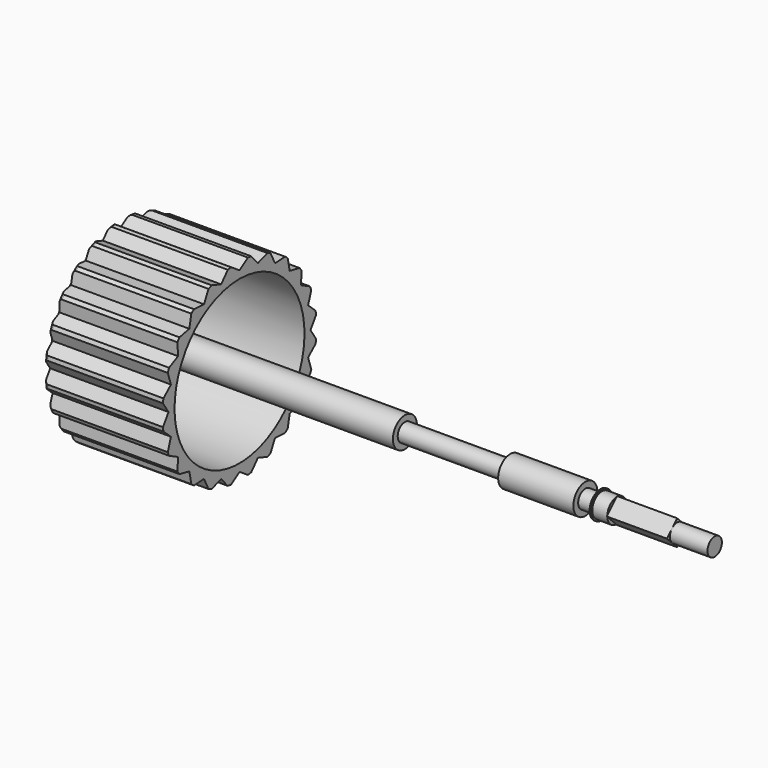
from build123d import *

# Parameters (mm, degrees)
POCKET001_DEPTH       = 0.2
POCKET002_DEPTH       = 5
POLARPATTERN001_COUNT = 24
PAD002_DEPTH          = 2
SKETCH033_R           = 0.3
PAD003_DEPTH          = 1.25


with BuildPart() as part:
    # Sketch034 → Revolution002 (revolve)
    with BuildSketch(Plane.XZ):
        with BuildLine():
            Line((0.5, 0), (0, 0))
            ThreePointArc((0.196118, 2.79397), (0.04909, 1.400422), (0, 0))
            ThreePointArc((0.295138, 2.88), (0.229552, 2.855488), (0.196118, 2.79397))
            ThreePointArc((0.295138, 2.88), (0.30928, 2.885858), (0.315138, 2.9))
            Line((0.315138, 3.1), (0.315138, 2.9))
            ThreePointArc((0.415138, 3.2), (0.344427, 3.170711), (0.315138, 3.1))
            Line((4.25, 3.2), (0.415138, 3.2))
            Line((4.25, 3.2), (4.25, 2.7))
            Line((4.25, 2.7), (0.5, 2.7))
            Line((0.5, 2.7), (0.5, 0))
        make_face()
    revolve(axis=Axis((0, 0, 0), (1, 0, 0)))

    # Sketch036 → Pocket001 (cut)
    with BuildSketch(Plane(origin=(0, 0, 0), x_dir=(0, -1, 0), z_dir=(-1, 0, 0))):
        with BuildLine():
            add(Edge.make_bspline(
                [(-0.144586, -1.770388), (-0.144587, -1.770389)],
                knots=[0, 0, 0.000117, 0.000117], degree=1))
            add(Edge.make_bspline(
                [(-0.144587, -1.770389), (-0.285158, -1.765754), (-0.431866, -1.745089), (-0.589359, -1.707739)],
                knots=[0, 0, 0, 0, 1, 1, 1, 1], degree=3))
            add(Edge.make_bspline(
                [(-0.589359, -1.707739), (-0.980517, -1.614974), (-1.33255, -1.438556), (-1.601539, -1.200496)],
                knots=[0, 0, 0, 0, 1, 1, 1, 1], degree=3))
            add(Edge.make_bspline(
                [(-1.601539, -1.200496), (-1.652107, -1.155742), (-1.717078, -1.090667), (-1.760041, -1.041739)],
                knots=[0, 0, 0, 0, 1, 1, 1, 1], degree=3))
            add(Edge.make_bspline(
                [(-1.760041, -1.041739), (-1.899643, -0.882754), (-2.000251, -0.711103), (-2.062886, -0.525045)],
                knots=[0, 0, 0, 0, 1, 1, 1, 1], degree=3))
            add(Edge.make_bspline(
                [(-2.062886, -0.525045), (-2.099453, -0.416421), (-2.119934, -0.314215), (-2.128859, -0.195826)],
                knots=[0, 0, 0, 0, 1, 1, 1, 1], degree=3))
            add(Edge.make_bspline(
                [(-2.128859, -0.195826), (-2.131077, -0.166402), (-2.130715, -0.061543), (-2.128288, -0.030672)],
                knots=[0, 0, 0, 0, 1, 1, 1, 1], degree=3))
            add(Edge.make_bspline(
                [(-2.128288, -0.030672), (-2.117488, 0.106707), (-2.088749, 0.229403), (-2.037218, 0.358127)],
                knots=[0, 0, 0, 0, 1, 1, 1, 1], degree=3))
            add(Edge.make_bspline(
                [(-2.037218, 0.358127), (-1.998629, 0.454522), (-1.942403, 0.55898), (-1.882985, 0.644663)],
                knots=[0, 0, 0, 0, 1, 1, 1, 1], degree=3))
            add(Edge.make_bspline(
                [(-1.882985, 0.644663), (-1.70569, 0.900327), (-1.457248, 1.110378), (-1.14805, 1.26603)],
                knots=[0, 0, 0, 0, 1, 1, 1, 1], degree=3))
            add(Edge.make_bspline(
                [(-1.14805, 1.26603), (-0.885632, 1.398134), (-0.570779, 1.488035), (-0.239548, 1.525439)],
                knots=[0, 0, 0, 0, 1, 1, 1, 1], degree=3))
            add(Edge.make_bspline(
                [(-0.239548, 1.525439), (-0.167929, 1.533526), (-0.106279, 1.538326), (-0.020857, 1.542465)],
                knots=[0, 0, 0, 0, 1, 1, 1, 1], degree=3))
            add(Edge.make_bspline(
                [(-0.020857, 1.542465), (0.016846, 1.544292), (0.145846, 1.544978), (0.189538, 1.543584)],
                knots=[0, 0, 0, 0, 1, 1, 1, 1], degree=3))
            add(Edge.make_bspline(
                [(0.189538, 1.543584), (0.355726, 1.538282), (0.495151, 1.522151), (0.653388, 1.489918)],
                knots=[0, 0, 0, 0, 1, 1, 1, 1], degree=3))
            add(Edge.make_bspline(
                [(0.653388, 1.489918), (0.925326, 1.434523), (1.173778, 1.343798), (1.395765, 1.218829)],
                knots=[0, 0, 0, 0, 1, 1, 1, 1], degree=3))
            add(Edge.make_bspline(
                [(1.395765, 1.218829), (1.507886, 1.155711), (1.620308, 1.079072), (1.713593, 1.002165)],
                knots=[0, 0, 0, 0, 1, 1, 1, 1], degree=3))
            add(Edge.make_bspline(
                [(1.713593, 1.002165), (1.821923, 0.912853), (1.917703, 0.814477), (1.990546, 0.717701)],
                knots=[0, 0, 0, 0, 1, 1, 1, 1], degree=3))
            add(Edge.make_bspline(
                [(1.990546, 0.717701), (2.057324, 0.628984), (2.105048, 0.552639), (2.147961, 0.465882)],
                knots=[0, 0, 0, 0, 1, 1, 1, 1], degree=3))
            add(Edge.make_bspline(
                [(2.147961, 0.465882), (2.206276, 0.347985), (2.24562, 0.230612), (2.267816, 0.10832)],
                knots=[0, 0, 0, 0, 1, 1, 1, 1], degree=3))
            add(Edge.make_bspline(
                [(2.267816, 0.10832), (2.279813, 0.042218), (2.287258, -0.064114), (2.286058, -0.152221)],
                knots=[0, 0, 0, 0, 1, 1, 1, 1], degree=3))
            add(Edge.make_bspline(
                [(2.286058, -0.152221), (2.285274, -0.209686), (2.282081, -0.254964), (2.275408, -0.303204)],
                knots=[0, 0, 0, 0, 1, 1, 1, 1], degree=3))
            add(Edge.make_bspline(
                [(2.275408, -0.303204), (2.245431, -0.519916), (2.149781, -0.74391), (2.00425, -0.938204)],
                knots=[0, 0, 0, 0, 1, 1, 1, 1], degree=3))
            add(Edge.make_bspline(
                [(2.00425, -0.938204), (1.987538, -0.960516), (1.948163, -1.009461), (1.936297, -1.022673)],
                knots=[0, 0, 0, 0, 1, 1, 1, 1], degree=3))
            add(Edge.make_bspline(
                [(1.936297, -1.022673), (1.899917, -1.06318), (1.861742, -1.083023), (1.812558, -1.08699)],
                knots=[0, 0, 0, 0, 1, 1, 1, 1], degree=3))
            add(Edge.make_bspline(
                [(1.812558, -1.08699), (1.756181, -1.091539), (1.700842, -1.069502), (1.663845, -1.027771)],
                knots=[0, 0, 0, 0, 1, 1, 1, 1], degree=3))
            add(Edge.make_bspline(
                [(1.663845, -1.027771), (1.636227, -0.996619), (1.621784, -0.960064), (1.619626, -0.915857)],
                knots=[0, 0, 0, 0, 1, 1, 1, 1], degree=3))
            add(Edge.make_bspline(
                [(1.619626, -0.915857), (1.617772, -0.877879), (1.628117, -0.840288), (1.649069, -0.808866)],
                knots=[0, 0, 0, 0, 1, 1, 1, 1], degree=3))
            add(Edge.make_bspline(
                [(1.649069, -0.808866), (1.655113, -0.799802), (1.662157, -0.790931), (1.685396, -0.763115)],
                knots=[0, 0, 0, 0, 1, 1, 1, 1], degree=3))
            add(Edge.make_bspline(
                [(1.685396, -0.763115), (1.711769, -0.731549), (1.753555, -0.671814), (1.779107, -0.629153)],
                knots=[0, 0, 0, 0, 1, 1, 1, 1], degree=3))
            add(Edge.make_bspline(
                [(1.779107, -0.629153), (1.852048, -0.507369), (1.899487, -0.377196), (1.916761, -0.251423)],
                knots=[0, 0, 0, 0, 1, 1, 1, 1], degree=3))
            add(Edge.make_bspline(
                [(1.916761, -0.251423), (1.92313, -0.205052), (1.925528, -0.185892), (1.926584, -0.172934)],
                knots=[0, 0, 0, 0, 1, 1, 1, 1], degree=3))
            add(Edge.make_bspline(
                [(1.926584, -0.172934), (1.933892, -0.083294), (1.918543, 0.038294), (1.885783, 0.15029)],
                knots=[0, 0, 0, 0, 1, 1, 1, 1], degree=3))
            add(Edge.make_bspline(
                [(1.885783, 0.15029), (1.842095, 0.299643), (1.758537, 0.444877), (1.639308, 0.578695)],
                knots=[0, 0, 0, 0, 1, 1, 1, 1], degree=3))
            add(Edge.make_bspline(
                [(1.639308, 0.578695), (1.57962, 0.645687), (1.505791, 0.712948), (1.426438, 0.772626)],
                knots=[0, 0, 0, 0, 1, 1, 1, 1], degree=3))
            add(Edge.make_bspline(
                [(1.426438, 0.772626), (1.263509, 0.895159), (1.074448, 0.991909), (0.858877, 1.063068)],
                knots=[0, 0, 0, 0, 1, 1, 1, 1], degree=3))
            add(Edge.make_bspline(
                [(0.858877, 1.063068), (0.703619, 1.114318), (0.537742, 1.150141), (0.36583, 1.169547)],
                knots=[0, 0, 0, 0, 1, 1, 1, 1], degree=3))
            add(Edge.make_bspline(
                [(0.36583, 1.169547), (0.349472, 1.171393), (0.326907, 1.173363), (0.315685, 1.173923)],
                knots=[0, 0, 0, 0, 1, 1, 1, 1], degree=3))
            add(Edge.make_bspline(
                [(0.315685, 1.173923), (0.150649, 1.182167), (0.011159, 1.183641), (-0.091715, 1.178228)],
                knots=[0, 0, 0, 0, 1, 1, 1, 1], degree=3))
            add(Edge.make_bspline(
                [(-0.091715, 1.178228), (-0.206151, 1.172206), (-0.312577, 1.158443), (-0.427504, 1.134802)],
                knots=[0, 0, 0, 0, 1, 1, 1, 1], degree=3))
            add(Edge.make_bspline(
                [(-0.427504, 1.134802), (-0.655783, 1.087843), (-0.865059, 1.012915), (-1.048303, 0.912531)],
                knots=[0, 0, 0, 0, 1, 1, 1, 1], degree=3))
            add(Edge.make_bspline(
                [(-1.048303, 0.912531), (-1.170884, 0.84538), (-1.275829, 0.771616), (-1.374797, 0.683042)],
                knots=[0, 0, 0, 0, 1, 1, 1, 1], degree=3))
            add(Edge.make_bspline(
                [(-1.374797, 0.683042), (-1.411148, 0.650508), (-1.467857, 0.592493), (-1.499691, 0.555272)],
                knots=[0, 0, 0, 0, 1, 1, 1, 1], degree=3))
            add(Edge.make_bspline(
                [(-1.499691, 0.555272), (-1.586007, 0.454347), (-1.653198, 0.344308), (-1.699433, 0.228153)],
                knots=[0, 0, 0, 0, 1, 1, 1, 1], degree=3))
            add(Edge.make_bspline(
                [(-1.699433, 0.228153), (-1.763662, 0.066794), (-1.780959, -0.105896), (-1.750785, -0.284545)],
                knots=[0, 0, 0, 0, 1, 1, 1, 1], degree=3))
            add(Edge.make_bspline(
                [(-1.750785, -0.284545), (-1.731563, -0.398352), (-1.687083, -0.515372), (-1.620834, -0.626427)],
                knots=[0, 0, 0, 0, 1, 1, 1, 1], degree=3))
            add(Edge.make_bspline(
                [(-1.620834, -0.626427), (-1.575318, -0.702727), (-1.524647, -0.769046), (-1.452168, -0.847178)],
                knots=[0, 0, 0, 0, 1, 1, 1, 1], degree=3))
            add(Edge.make_bspline(
                [(-1.452168, -0.847178), (-1.41867, -0.883289), (-1.392098, -0.908216), (-1.337852, -0.954412)],
                knots=[0, 0, 0, 0, 1, 1, 1, 1], degree=3))
            add(Edge.make_bspline(
                [(-1.337852, -0.954412), (-1.081665, -1.172587), (-0.724446, -1.327921), (-0.334814, -1.390579)],
                knots=[0, 0, 0, 0, 1, 1, 1, 1], degree=3))
            add(Edge.make_bspline(
                [(-0.334814, -1.390579), (-0.318026, -1.393278), (-0.297668, -1.396698), (-0.289574, -1.398178)],
                knots=[0, 0, 0, 0, 1, 1, 1, 1], degree=3))
            add(Edge.make_bspline(
                [(-0.289574, -1.398178), (-0.245414, -1.406252), (-0.200519, -1.409683), (-0.139136, -1.409674)],
                knots=[0, 0, 0, 0, 1, 1, 1, 1], degree=3))
            add(Edge.make_bspline(
                [(-0.139136, -1.409674), (-0.042731, -1.409661), (0.111644, -1.397864), (0.182204, -1.38512)],
                knots=[0, 0, 0, 0, 1, 1, 1, 1], degree=3))
            add(Edge.make_bspline(
                [(0.182204, -1.38512), (0.343105, -1.356059), (0.483866, -1.308961), (0.600516, -1.245156)],
                knots=[0, 0, 0, 0, 1, 1, 1, 1], degree=3))
            add(Edge.make_bspline(
                [(0.600516, -1.245156), (0.714161, -1.182995), (0.795069, -1.114581), (0.848784, -1.035225)],
                knots=[0, 0, 0, 0, 1, 1, 1, 1], degree=3))
            add(Edge.make_bspline(
                [(0.848784, -1.035225), (0.89326, -0.969519), (0.913097, -0.910734), (0.913159, -0.844453)],
                knots=[0, 0, 0, 0, 1, 1, 1, 1], degree=3))
            add(Edge.make_bspline(
                [(0.913159, -0.844453), (0.913199, -0.798142), (0.903958, -0.758854), (0.88289, -0.715818)],
                knots=[0, 0, 0, 0, 1, 1, 1, 1], degree=3))
            add(Edge.make_bspline(
                [(0.88289, -0.715818), (0.841141, -0.630534), (0.765799, -0.559789), (0.651299, -0.498358)],
                knots=[0, 0, 0, 0, 1, 1, 1, 1], degree=3))
            add(Edge.make_bspline(
                [(0.651299, -0.498358), (0.549656, -0.443825), (0.413965, -0.403312), (0.268027, -0.383927)],
                knots=[0, 0, 0, 0, 1, 1, 1, 1], degree=3))
            add(Edge.make_bspline(
                [(0.268027, -0.383927), (0.238178, -0.379962), (0.219631, -0.376278), (0.206686, -0.37174)],
                knots=[0, 0, 0, 0, 1, 1, 1, 1], degree=3))
            add(Edge.make_bspline(
                [(0.206686, -0.37174), (0.193525, -0.367127), (0.171925, -0.355802), (0.159596, -0.347049)],
                knots=[0, 0, 0, 0, 1, 1, 1, 1], degree=3))
            add(Edge.make_bspline(
                [(0.159596, -0.347049), (0.147574, -0.338514), (0.128372, -0.320392), (0.118932, -0.308671)],
                knots=[0, 0, 0, 0, 1, 1, 1, 1], degree=3))
            add(Edge.make_bspline(
                [(0.118932, -0.308671), (0.093148, -0.276657), (0.079056, -0.238452), (0.07711, -0.195281)],
                knots=[0, 0, 0, 0, 1, 1, 1, 1], degree=3))
            add(Edge.make_bspline(
                [(0.07711, -0.195281), (0.074478, -0.136899), (0.098518, -0.079549), (0.141572, -0.041496)],
                knots=[0, 0, 0, 0, 1, 1, 1, 1], degree=3))
            add(Edge.make_bspline(
                [(0.141572, -0.041496), (0.157923, -0.027044), (0.181879, -0.012571), (0.202812, -0.004498)],
                knots=[0, 0, 0, 0, 1, 1, 1, 1], degree=3))
            add(Edge.make_bspline(
                [(0.202812, -0.004498), (0.215156, 0.000263), (0.223627, 0.002464), (0.25113, 0.008058)],
                knots=[0, 0, 0, 0, 1, 1, 1, 1], degree=3))
            add(Edge.make_bspline(
                [(0.25113, 0.008058), (0.333492, 0.024811), (0.394536, 0.047105), (0.447633, 0.079825)],
                knots=[0, 0, 0, 0, 1, 1, 1, 1], degree=3))
            add(Edge.make_bspline(
                [(0.447633, 0.079825), (0.50029, 0.112272), (0.533221, 0.147799), (0.549348, 0.189558)],
                knots=[0, 0, 0, 0, 1, 1, 1, 1], degree=3))
            add(Edge.make_bspline(
                [(0.549348, 0.189558), (0.570722, 0.244904), (0.548918, 0.304742), (0.488778, 0.355775)],
                knots=[0, 0, 0, 0, 1, 1, 1, 1], degree=3))
            add(Edge.make_bspline(
                [(0.488778, 0.355775), (0.425474, 0.409493), (0.319759, 0.44985), (0.2048, 0.464184)],
                knots=[0, 0, 0, 0, 1, 1, 1, 1], degree=3))
            add(Edge.make_bspline(
                [(0.2048, 0.464184), (0.16381, 0.469295), (0.145632, 0.470198), (0.08325, 0.470221)],
                knots=[0, 0, 0, 0, 1, 1, 1, 1], degree=3))
            add(Edge.make_bspline(
                [(0.08325, 0.470221), (0.010027, 0.470247), (-0.010563, 0.469107), (-0.162574, 0.4566)],
                knots=[0, 0, 0, 0, 1, 1, 1, 1], degree=3))
            add(Edge.make_bspline(
                [(-0.162574, 0.4566), (-0.192616, 0.454128), (-0.20872, 0.452216), (-0.231252, 0.448444)],
                knots=[0, 0, 0, 0, 1, 1, 1, 1], degree=3))
            add(Edge.make_bspline(
                [(-0.231252, 0.448444), (-0.29921, 0.437067), (-0.34567, 0.426926), (-0.358797, 0.420604)],
                knots=[0, 0, 0, 0, 1, 1, 1, 1], degree=3))
            add(Edge.make_bspline(
                [(-0.358797, 0.420604), (-0.37581, 0.412411), (-0.388737, 0.396525), (-0.396025, 0.374856)],
                knots=[0, 0, 0, 0, 1, 1, 1, 1], degree=3))
            add(Edge.make_bspline(
                [(-0.396025, 0.374856), (-0.397975, 0.369058), (-0.39806, 0.348325), (-0.39861, -0.253058)],
                knots=[0, 0, 0, 0, 1, 1, 1, 1], degree=3))
            add(Edge.make_bspline(
                [(-0.39861, -0.253058), (-0.399143, -0.836099), (-0.399295, -0.875454), (-0.401052, -0.882607)],
                knots=[0, 0, 0, 0, 1, 1, 1, 1], degree=3))
            add(Edge.make_bspline(
                [(-0.401052, -0.882607), (-0.40589, -0.902321), (-0.411519, -0.916704), (-0.420626, -0.93262)],
                knots=[0, 0, 0, 0, 1, 1, 1, 1], degree=3))
            add(Edge.make_bspline(
                [(-0.420626, -0.93262), (-0.448526, -0.981382), (-0.498511, -1.015027), (-0.554429, -1.022683)],
                knots=[0, 0, 0, 0, 1, 1, 1, 1], degree=3))
            add(Edge.make_bspline(
                [(-0.554429, -1.022683), (-0.56649, -1.024334), (-0.591974, -1.024356), (-0.602986, -1.022722)],
                knots=[0, 0, 0, 0, 1, 1, 1, 1], degree=3))
            add(Edge.make_bspline(
                [(-0.602986, -1.022722), (-0.644673, -1.016545), (-0.680224, -0.997853), (-0.710579, -0.966152)],
                knots=[0, 0, 0, 0, 1, 1, 1, 1], degree=3))
            add(Edge.make_bspline(
                [(-0.710579, -0.966152), (-0.728865, -0.947054), (-0.741934, -0.925637), (-0.749976, -0.901587)],
                knots=[0, 0, 0, 0, 1, 1, 1, 1], degree=3))
            add(Edge.make_bspline(
                [(-0.749976, -0.901587), (-0.75502, -0.886502), (-0.757081, -0.876033), (-0.758403, -0.858782)],
                knots=[0, 0, 0, 0, 1, 1, 1, 1], degree=3))
            add(Edge.make_bspline(
                [(-0.758403, -0.858782), (-0.759129, -0.849302), (-0.75938, -0.604975), (-0.759143, -0.136958)],
                knots=[0, 0, 0, 0, 1, 1, 1, 1], degree=3))
            add(Edge.make_bspline(
                [(-0.759143, -0.136958), (-0.758809, 0.527207), (-0.758672, 0.571103), (-0.75691, 0.579802)],
                knots=[0, 0, 0, 0, 1, 1, 1, 1], degree=3))
            add(Edge.make_bspline(
                [(-0.75691, 0.579802), (-0.754074, 0.59381), (-0.747032, 0.615083), (-0.741394, 0.626677)],
                knots=[0, 0, 0, 0, 1, 1, 1, 1], degree=3))
            add(Edge.make_bspline(
                [(-0.741394, 0.626677), (-0.724046, 0.662355), (-0.694525, 0.692095), (-0.658887, 0.709796)],
                knots=[0, 0, 0, 0, 1, 1, 1, 1], degree=3))
            add(Edge.make_bspline(
                [(-0.658887, 0.709796), (-0.647287, 0.715558), (-0.59683, 0.732876), (-0.551749, 0.746568)],
                knots=[0, 0, 0, 0, 1, 1, 1, 1], degree=3))
            add(Edge.make_bspline(
                [(-0.551749, 0.746568), (-0.392395, 0.794968), (-0.239797, 0.820226), (-0.05138, 0.829391)],
                knots=[0, 0, 0, 0, 1, 1, 1, 1], degree=3))
            add(Edge.make_bspline(
                [(-0.05138, 0.829391), (0.015975, 0.832667), (0.123054, 0.834452), (0.151384, 0.832772)],
                knots=[0, 0, 0, 0, 1, 1, 1, 1], degree=3))
            add(Edge.make_bspline(
                [(0.151384, 0.832772), (0.271469, 0.825647), (0.38139, 0.802022), (0.483873, 0.761311)],
                knots=[0, 0, 0, 0, 1, 1, 1, 1], degree=3))
            add(Edge.make_bspline(
                [(0.483873, 0.761311), (0.515304, 0.748825), (0.534782, 0.740041), (0.566132, 0.724215)],
                knots=[0, 0, 0, 0, 1, 1, 1, 1], degree=3))
            add(Edge.make_bspline(
                [(0.566132, 0.724215), (0.751279, 0.630746), (0.87629, 0.48491), (0.909989, 0.323077)],
                knots=[0, 0, 0, 0, 1, 1, 1, 1], degree=3))
            add(Edge.make_bspline(
                [(0.909989, 0.323077), (0.921291, 0.268801), (0.922261, 0.210642), (0.912762, 0.156832)],
                knots=[0, 0, 0, 0, 1, 1, 1, 1], degree=3))
            add(Edge.make_bspline(
                [(0.912762, 0.156832), (0.899866, 0.083778), (0.867663, 0.010968), (0.82043, -0.051928)],
                knots=[0, 0, 0, 0, 1, 1, 1, 1], degree=3))
            add(Edge.make_bspline(
                [(0.82043, -0.051928), (0.803502, -0.07447), (0.793326, -0.085925), (0.76332, -0.116221)],
                knots=[0, 0, 0, 0, 1, 1, 1, 1], degree=3))
            add(Edge.make_bspline(
                [(0.76332, -0.116221), (0.747299, -0.132397), (0.734296, -0.145736), (0.734424, -0.145864)],
                knots=[0, 0, 0, 0, 1, 1, 1, 1], degree=3))
            add(Edge.make_bspline(
                [(0.734424, -0.145864), (0.734557, -0.145996), (0.738569, -0.147773), (0.743351, -0.149821)],
                knots=[0, 0, 0, 0, 1, 1, 1, 1], degree=3))
            add(Edge.make_bspline(
                [(0.743351, -0.149821), (0.755827, -0.155166), (0.816179, -0.186036), (0.83923, -0.198864)],
                knots=[0, 0, 0, 0, 1, 1, 1, 1], degree=3))
            add(Edge.make_bspline(
                [(0.83923, -0.198864), (0.98623, -0.280666), (1.103676, -0.389141), (1.181237, -0.514747)],
                knots=[0, 0, 0, 0, 1, 1, 1, 1], degree=3))
            add(Edge.make_bspline(
                [(1.181237, -0.514747), (1.235782, -0.60308), (1.266949, -0.700991), (1.274737, -0.808477)],
                knots=[0, 0, 0, 0, 1, 1, 1, 1], degree=3))
            add(Edge.make_bspline(
                [(1.274737, -0.808477), (1.278202, -0.856299), (1.272681, -0.91923), (1.260066, -0.975719)],
                knots=[0, 0, 0, 0, 1, 1, 1, 1], degree=3))
            add(Edge.make_bspline(
                [(1.260066, -0.975719), (1.211317, -1.194003), (1.045177, -1.396062), (0.792371, -1.544528)],
                knots=[0, 0, 0, 0, 1, 1, 1, 1], degree=3))
            add(Edge.make_bspline(
                [(0.792371, -1.544528), (0.700265, -1.598619), (0.585296, -1.649216), (0.474607, -1.684372)],
                knots=[0, 0, 0, 0, 1, 1, 1, 1], degree=3))
            add(Edge.make_bspline(
                [(0.474607, -1.684372), (0.270832, -1.749093), (0.067261, -1.777372), (-0.144586, -1.770388)],
                knots=[0, 0, 0, 0, 1, 1, 1, 1], degree=3))
        make_face()
    extrude(amount=-POCKET001_DEPTH, mode=Mode.SUBTRACT)

    # Sketch031 → Pocket002 (cut)
    with BuildSketch(Plane(origin=(0, 0, 0), x_dir=(0, -1, 0), z_dir=(-1, 0, 0))):
        Polygon((-0.348374, 3.18098), (-0.348374, 3.877728), (0.348374, 3.877728), (0.348374, 3.18098), (0, 2.95), align=None)
    pocket002 = extrude(amount=-POCKET002_DEPTH, mode=Mode.SUBTRACT)

    # PolarPattern001: Pocket002 ×24 about axis
    polarpattern001_axis = Axis((0, 0, 0), (-1, 0, 0))
    for i in range(1, POLARPATTERN001_COUNT):
        add(pocket002.rotate(polarpattern001_axis, i * 360 / POLARPATTERN001_COUNT), mode=Mode.SUBTRACT)

    # Sketch030 → Revolution003 (revolve)
    with BuildSketch(Plane(origin=(0.5, 0, 0), x_dir=(1, 0, 0), z_dir=(0, -1, 0))):
        Polygon((16.3, 0), (16.3, 0.4), (15.8, 0.4), (15.8, 0.45), (15.75, 0.45), (15.75, 0.3), (15.25, 0.3), (15.25, 0.5), (12.75, 0.5), (12.75, 0.3), (9.25, 0.3), (9.25, 0.5), (0, 0.5), (0, 0), align=None)
    revolve(axis=Axis((0, 0, 0), (1, 0, 0)))

    # Sketch032 → Pad002 (join)
    with BuildSketch(Plane.YZ.offset(16.8)):
        Polygon((-0.424264, 0), (0, 0.424264), (0.424264, 0), (0, -0.424264), align=None)
    extrude(amount=PAD002_DEPTH)

    # Sketch033 → Pad003 (join)
    with BuildSketch(Plane.YZ.offset(18.8)):
        Circle(SKETCH033_R)
    extrude(amount=PAD003_DEPTH)


solid = part.part
